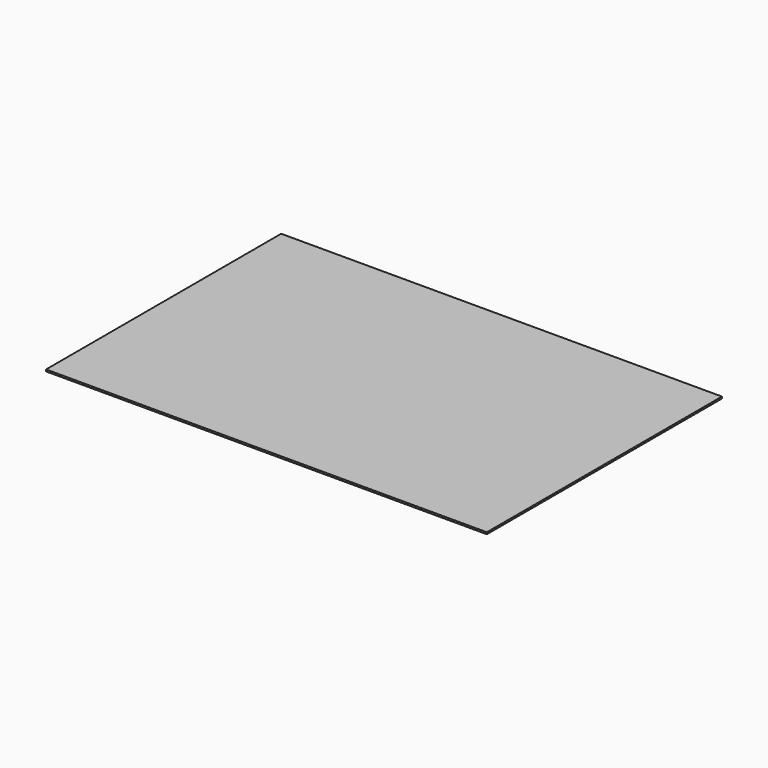
from build123d import *

# Parameters (mm, degrees)
F0_W     = 0.5
F0_H     = 10.94
F0_W_2   = 10.94
F0_H_2   = 0.76
F0_H_3   = 0.5
F0_W_3   = 0.26
F1_DEPTH = 0.15


with BuildPart() as f1:
    # F0 (on Top) → F1 (new body)
    with BuildSketch(Plane.XY):
        with Locations((1.4353289247, -17.6067869407)):
            Rectangle(F0_W, F0_H)
        Polygon((13.3675259571, -0.6967869407), (12.8675259571, -0.6967869407), (12.8558134785, -1.1967869407), (13.3558134785, -1.1967869407), align=None)
        with Locations((31.5553289247, -0.3167869407)):
            Rectangle(F0_W_2, F0_H_2)
        with Locations((31.5553289247, -23.9567869407)):
            Rectangle(F0_W_2, F0_H_2)
        Polygon((12.5995444462, -12.1367869407), (1.9453289247, -12.1367869407), (1.9453289247, -23.0767869407), (12.3432754138, -23.0767869407), align=None)
        with Locations((25.3353289247, -17.6067869407)):
            Rectangle(F0_W, F0_H)
        Polygon((13.8558134785, -1.1967869407), (13.3558134785, -1.1967869407), (13.0995444462, -12.1367869407), (13.5995444462, -12.1367869407), align=None)
        with Locations((1.4353289247, -6.6667869407)):
            Rectangle(F0_W, F0_H)
        Polygon((13.5995444462, -12.1367869407), (13.0995444462, -12.1367869407), (12.8432754138, -23.0767869407), (13.3432754138, -23.0767869407), align=None)
        Polygon((12.8675259571, -0.6967869407), (1.9453289247, -0.6967869407), (1.9453289247, -1.1967869407), (12.8558134785, -1.1967869407), align=None)
        Polygon((12.8853289247, 0.0632130593), (1.9453289247, 0.0632130593), (1.9453289247, -0.6967869407), (12.8675259571, -0.6967869407), align=None)
        Polygon((12.8432754138, -23.0767869407), (12.3432754138, -23.0767869407), (12.3315629352, -23.5767869407), (12.8315629352, -23.5767869407), align=None)
        Polygon((25.0853289247, -23.5767869407), (13.3315629352, -23.5767869407), (13.3137599677, -24.3367869407), (25.0853289247, -24.3367869407), align=None)
        with Locations((37.5353289247, -17.6067869407)):
            Rectangle(F0_W, F0_H)
        Polygon((12.8315629352, -23.5767869407), (12.3315629352, -23.5767869407), (12.3137599677, -24.3367869407), (12.8137599677, -24.3367869407), align=None)
        Polygon((12.3315629352, -23.5767869407), (1.9453289247, -23.5767869407), (1.9453289247, -24.3367869407), (12.3137599677, -24.3367869407), align=None)
        Polygon((25.0853289247, 0.0632130593), (13.8853289247, 0.0632130593), (13.8675259571, -0.6967869407), (25.0853289247, -0.6967869407), align=None)
        Polygon((37.0253289247, -1.1967869407), (26.0853289247, -1.1967869407), (26.0853289247, -23.0767869407), (37.0253289247, -23.0767869407), (37.0253289247, -12.1367869407), align=None)
        Polygon((26.0853289247, -1.1967869407), (25.5853289247, -1.1967869407), (25.5853289247, -12.1367869407), (25.5853289247, -23.0767869407), (26.0853289247, -23.0767869407), align=None)
        Polygon((12.8558134785, -1.1967869407), (1.9453289247, -1.1967869407), (1.9453289247, -12.1367869407), (12.5995444462, -12.1367869407), align=None)
        with Locations((25.3353289247, -6.6667869407)):
            Rectangle(F0_W, F0_H)
        with Locations((25.8353289247, -23.3267869407)):
            Rectangle(F0_W, F0_H_3)
        with Locations((31.5553289247, -0.9467869407)):
            Rectangle(F0_W_2, F0_H_3)
        Polygon((13.0995444462, -12.1367869407), (12.5995444462, -12.1367869407), (12.3432754138, -23.0767869407), (12.8432754138, -23.0767869407), align=None)
        with Locations((37.5353289247, -6.6667869407)):
            Rectangle(F0_W, F0_H)
        Polygon((13.8675259571, -0.6967869407), (13.3675259571, -0.6967869407), (13.3558134785, -1.1967869407), (13.8558134785, -1.1967869407), align=None)
        Polygon((12.3432754138, -23.0767869407), (1.9453289247, -23.0767869407), (1.9453289247, -23.5767869407), (12.3315629352, -23.5767869407), align=None)
        Polygon((13.3432754138, -23.0767869407), (12.8432754138, -23.0767869407), (12.8315629352, -23.5767869407), (13.3315629352, -23.5767869407), align=None)
        Polygon((25.0853289247, -23.0767869407), (13.3432754138, -23.0767869407), (13.3315629352, -23.5767869407), (25.0853289247, -23.5767869407), align=None)
        Polygon((13.3558134785, -1.1967869407), (12.8558134785, -1.1967869407), (12.5995444462, -12.1367869407), (13.0995444462, -12.1367869407), align=None)
        with Locations((25.3353289247, -23.3267869407)):
            Rectangle(F0_W, F0_H_3)
        with Locations((31.5553289247, -23.3267869407)):
            Rectangle(F0_W_2, F0_H_3)
        Polygon((25.0853289247, -0.6967869407), (13.8675259571, -0.6967869407), (13.8558134785, -1.1967869407), (25.0853289247, -1.1967869407), align=None)
        Polygon((13.3315629352, -23.5767869407), (12.8315629352, -23.5767869407), (12.8137599677, -24.3367869407), (13.3137599677, -24.3367869407), align=None)
        Polygon((25.0853289247, -12.1367869407), (13.5995444462, -12.1367869407), (13.3432754138, -23.0767869407), (25.0853289247, -23.0767869407), align=None)
        Polygon((25.0853289247, -1.1967869407), (13.8558134785, -1.1967869407), (13.5995444462, -12.1367869407), (25.0853289247, -12.1367869407), align=None)
        with Locations((1.8153289247, -23.9567869407)):
            Rectangle(F0_W_3, F0_H_2)
        with Locations((37.5353289247, -0.9467869407)):
            Rectangle(F0_W, F0_H_3)
        Polygon((13.3853289247, 0.0632130593), (12.8853289247, 0.0632130593), (12.8675259571, -0.6967869407), (13.3675259571, -0.6967869407), align=None)
        with Locations((37.5353289247, -23.9567869407)):
            Rectangle(F0_W, F0_H_2)
        with Locations((1.4353289247, -23.3267869407)):
            Rectangle(F0_W, F0_H_3)
        with Locations((37.1553289247, -17.6067869407)):
            Rectangle(F0_W_3, F0_H)
        with Locations((1.4353289247, -23.9567869407)):
            Rectangle(F0_W, F0_H_2)
        with Locations((1.8153289247, -17.6067869407)):
            Rectangle(F0_W_3, F0_H)
        with Locations((37.5353289247, -0.3167869407)):
            Rectangle(F0_W, F0_H_2)
        with Locations((37.1553289247, -23.3267869407)):
            Rectangle(F0_W_3, F0_H_3)
        with Locations((25.3353289247, -0.9467869407)):
            Rectangle(F0_W, F0_H_3)
        with Locations((37.5353289247, -23.3267869407)):
            Rectangle(F0_W, F0_H_3)
        with Locations((37.1553289247, -0.9467869407)):
            Rectangle(F0_W_3, F0_H_3)
        with Locations((25.3353289247, -0.3167869407)):
            Rectangle(F0_W, F0_H_2)
        with Locations((1.8153289247, -6.6667869407)):
            Rectangle(F0_W_3, F0_H)
        Polygon((13.8853289247, 0.0632130593), (13.3853289247, 0.0632130593), (13.3675259571, -0.6967869407), (13.8675259571, -0.6967869407), align=None)
        with Locations((1.8153289247, -23.3267869407)):
            Rectangle(F0_W_3, F0_H_3)
        with Locations((1.4353289247, -0.3167869407)):
            Rectangle(F0_W, F0_H_2)
        with Locations((37.1553289247, -23.9567869407)):
            Rectangle(F0_W_3, F0_H_2)
        with Locations((1.4353289247, -0.9467869407)):
            Rectangle(F0_W, F0_H_3)
        with Locations((37.1553289247, -6.6667869407)):
            Rectangle(F0_W_3, F0_H)
        with Locations((1.8153289247, -0.3167869407)):
            Rectangle(F0_W_3, F0_H_2)
        with Locations((1.8153289247, -0.9467869407)):
            Rectangle(F0_W_3, F0_H_3)
        with Locations((25.8353289247, -23.9567869407)):
            Rectangle(F0_W, F0_H_2)
        with Locations((37.1553289247, -0.3167869407)):
            Rectangle(F0_W_3, F0_H_2)
        with Locations((25.3353289247, -23.9567869407)):
            Rectangle(F0_W, F0_H_2)
        with Locations((25.8353289247, -0.9467869407)):
            Rectangle(F0_W, F0_H_3)
        with Locations((25.8353289247, -0.3167869407)):
            Rectangle(F0_W, F0_H_2)
    extrude(amount=-F1_DEPTH)


solid = f1.part
